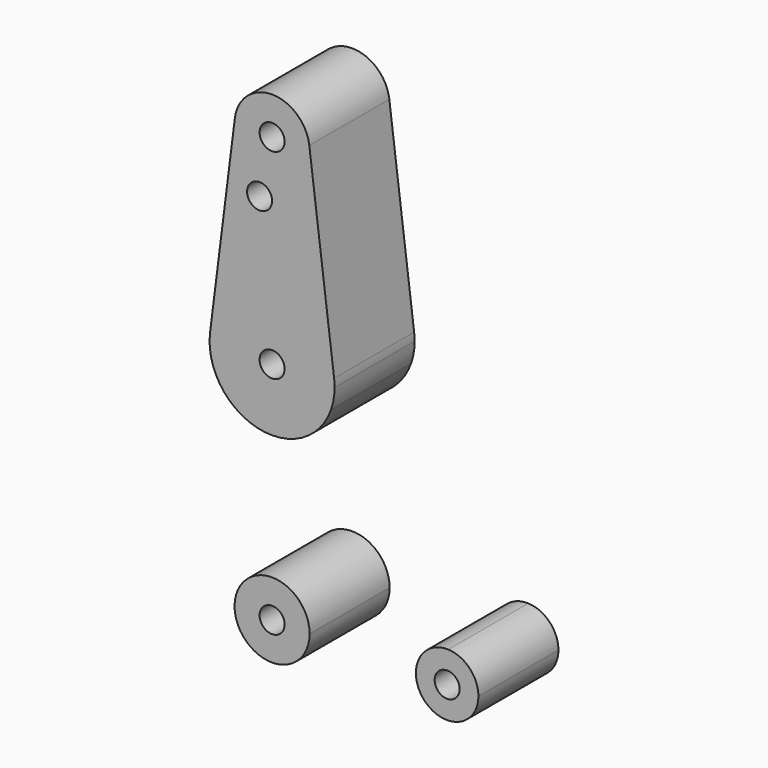
from build123d import *

# Parameters (mm, degrees)
F0_R     = 3.175
F1_DEPTH = 25.4


with BuildPart() as f1:
    # F0 (on Front) → F1 (new body)
    with BuildSketch(Plane.XZ):
        with BuildLine():
            ThreePointArc((-9.450293, 109.140625), (-0.596483, 98.443695), (9.525, 107.95))
            ThreePointArc((9.525, 107.95), (9.506305, 108.546483), (9.450293, 109.140625))
            ThreePointArc((9.450293, 109.140625), (0, 117.475), (-9.450293, 109.140625))
        make_face()
        with Locations((0, 107.95)):
            Circle(F0_R, mode=Mode.SUBTRACT)
        with BuildLine():
            ThreePointArc((9.450293, 109.140625), (9.506305, 108.546483), (9.525, 107.95))
            ThreePointArc((9.525, 107.95), (-0.596483, 98.443695), (-9.450293, 109.140625))
            Line((-9.450293, 109.140625), (-15.750488, 59.134375))
            ThreePointArc((-15.750488, 59.134375), (0, 73.025), (15.750488, 59.134375))
            Line((15.750488, 59.134375), (9.450293, 109.140625))
        make_face()
        with Locations((-3.175, 93.6752)):
            Circle(F0_R, mode=Mode.SUBTRACT)
        with BuildLine():
            ThreePointArc((0, -9.525), (0.338886, -9.51897), (0.677344, -9.500886))
            Line((0.677344, -9.500886), (0, -9.525))
        make_face()
        with BuildLine():
            Line((0, -9.525), (0.677344, -9.500886))
            ThreePointArc((0.677344, -9.500886), (6.970557, -6.491299), (9.525, 0))
            ThreePointArc((9.525, 0), (-6.735192, 6.735192), (0, -9.525))
        make_face()
        Circle(F0_R, mode=Mode.SUBTRACT)
        with BuildLine():
            ThreePointArc((52.3875, 0), (50.161633, 5.51191), (44.732405, 7.932475))
            ThreePointArc((44.732405, 7.932475), (36.5125, 0), (44.732405, -7.932475))
            ThreePointArc((44.732405, -7.932475), (50.161633, -5.51191), (52.3875, 0))
        make_face()
        with Locations((44.45, 0)):
            Circle(F0_R, mode=Mode.SUBTRACT)
        with BuildLine():
            Line((14.991944, 51.929155), (15.750488, 59.134375))
            ThreePointArc((15.750488, 59.134375), (0, 73.025), (-15.750488, 59.134375))
            Line((-15.750488, 59.134375), (-15.000964, 51.955126))
            ThreePointArc((-15.000964, 51.955126), (-0.013747, 41.275006), (14.991944, 51.929155))
        make_face()
        with Locations((0, 57.15)):
            Circle(F0_R, mode=Mode.SUBTRACT)
        with BuildLine():
            ThreePointArc((15.875, 57.15), (15.843841, 58.144139), (15.750488, 59.134375))
            Line((15.750488, 59.134375), (14.991944, 51.929155))
            ThreePointArc((14.991944, 51.929155), (15.652679, 54.502501), (15.875, 57.15))
        make_face()
        with BuildLine():
            Line((-15.000964, 51.955126), (-15.750488, 59.134375))
            ThreePointArc((-15.750488, 59.134375), (-15.789185, 55.501585), (-15.000964, 51.955126))
        make_face()
    extrude(amount=F1_DEPTH)


solid = f1.part
